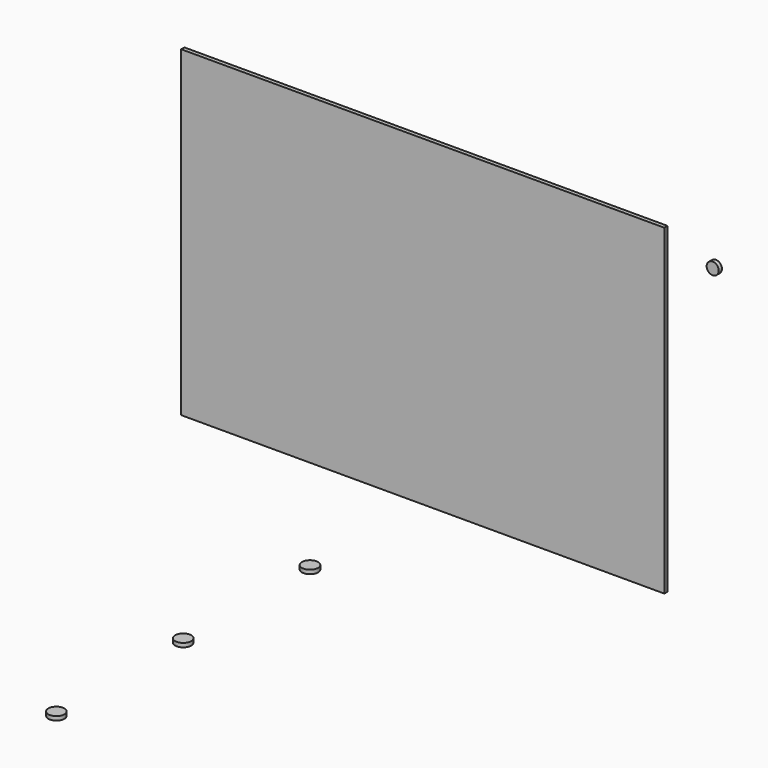
from build123d import *

# Parameters (mm, degrees)
F0_W     = 3048
F0_H     = 2032
F1_DEPTH = 25.4
F2_R     = 38.1
F3_DEPTH = 25
F4_R     = 50.8
F5_DEPTH = 25


with BuildPart() as f1:
    # F0 (on Front) → F1 (new body)
    with BuildSketch(Plane.XZ):
        with Locations((0, 1016)):
            Rectangle(F0_W, F0_H)
    extrude(amount=F1_DEPTH)


with BuildPart() as f3:
    # F2 (on Front) → F3 (new body)
    with BuildSketch(Plane.XZ):
        with Locations((1828.8, 1905)):
            Circle(F2_R)
    extrude(amount=F3_DEPTH)


with BuildPart() as f5:
    # F4 (on Top) → F5 (new body)
    with BuildSketch(Plane.XY):
        with Locations((0, -2914.4)):
            Circle(F4_R)
        with Locations((0, -1914.4)):
            Circle(F4_R)
        with Locations((0, -914.4)):
            Circle(F4_R)
    extrude(amount=F5_DEPTH)


solid = Compound([f1.part, f3.part, f5.part])
